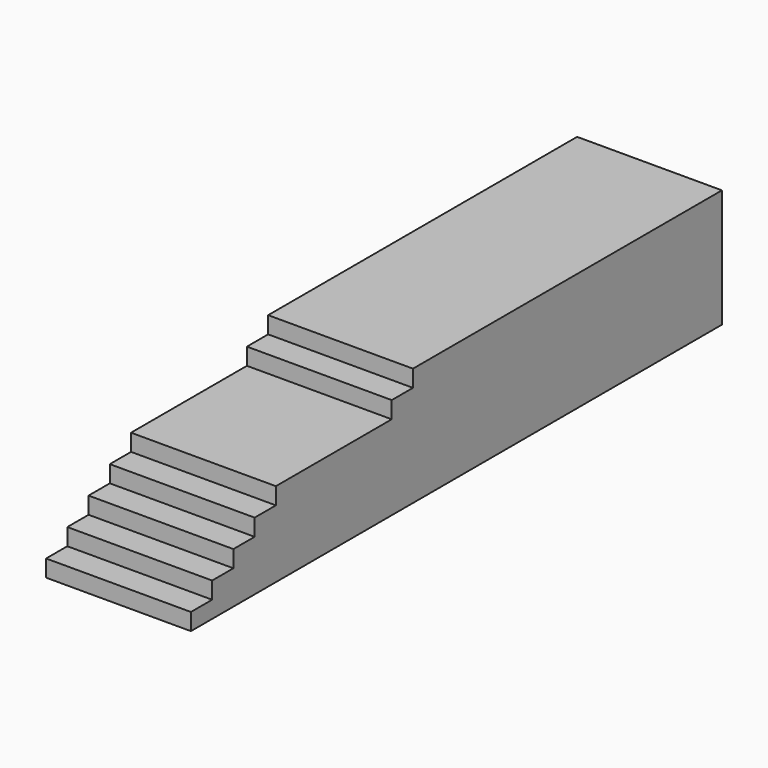
from build123d import *

# Parameters (mm, degrees)
F0_W      = 1524
F0_H      = 6985
F1_DEPTH  = 177.8
F2_W      = 1524
F2_H      = 6705.6
F3_DEPTH  = 177.8
F4_W      = 1524
F4_H      = 6426.2
F5_DEPTH  = 177.8
F6_W      = 1524
F6_H      = 6146.8
F7_DEPTH  = 177.8
F8_W      = 1524
F8_H      = 5867.4
F9_DEPTH  = 177.8
F10_W     = 1524
F10_H     = 4343.4
F11_DEPTH = 177.8
F12_W     = 1524
F12_H     = 4064
F13_DEPTH = 177.8


with BuildPart() as f1:
    # F0 (on Top) → F1 (new body)
    with BuildSketch(Plane.XY):
        with Locations((-0.999503, 852.845111)):
            Rectangle(F0_W, F0_H)
    extrude(amount=F1_DEPTH)

    # F2 (on face) → F3 (join)
    with BuildSketch(Plane.XY.offset(177.8)):
        with Locations((-0.999503, 992.545111)):
            Rectangle(F2_W, F2_H)
    extrude(amount=F3_DEPTH)

    # F4 (on face) → F5 (join)
    with BuildSketch(Plane.XY.offset(355.6)):
        with Locations((-0.999503, 1132.245111)):
            Rectangle(F4_W, F4_H)
        with Locations((-0.999503, 1132.245111)):
            Rectangle(F4_W, F4_H)
    extrude(amount=F5_DEPTH)

    # F6 (on face) → F7 (join)
    with BuildSketch(Plane.XY.offset(533.4)):
        with Locations((-0.999503, 1271.945111)):
            Rectangle(F6_W, F6_H)
    extrude(amount=F7_DEPTH)

    # F8 (on face) → F9 (join)
    with BuildSketch(Plane.XY.offset(711.2)):
        with Locations((-0.999503, 1411.645111)):
            Rectangle(F8_W, F8_H)
        with Locations((-0.999503, 1411.645111)):
            Rectangle(F8_W, F8_H)
    extrude(amount=F9_DEPTH)

    # F10 (on face) → F11 (join)
    with BuildSketch(Plane.XY.offset(889)):
        with Locations((-0.999503, 2173.645111)):
            Rectangle(F10_W, F10_H)
        with Locations((-0.999503, 2173.645111)):
            Rectangle(F10_W, F10_H)
    extrude(amount=F11_DEPTH)

    # F12 (on face) → F13 (join)
    with BuildSketch(Plane.XY.offset(1066.8)):
        with Locations((-0.999503, 2313.345111)):
            Rectangle(F12_W, F12_H)
    extrude(amount=F13_DEPTH)


solid = f1.part
